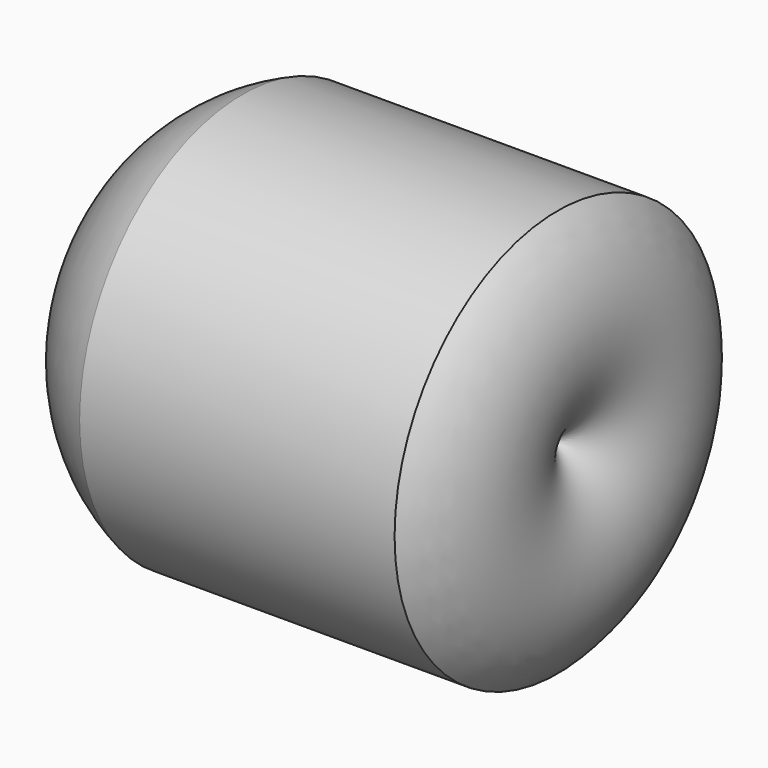
from build123d import *


with BuildPart() as f1:
    # F0 (on Top) → F1 (revolve)
    with BuildSketch(Plane.XY):
        with BuildLine():
            ThreePointArc((-96.600384, -14.193644), (-88.011407, -51.59284), (-58.633797, -76.279402))
            Line((-58.633797, -76.279402), (37.310869, -76.279402))
            ThreePointArc((37.310869, -76.279402), (50.01966, -44.935872), (35.918396, -14.193644))
            Line((35.918396, -14.193644), (-96.600384, -14.193644))
        make_face()
    revolve(axis=Axis((-30.340994, -14.193644, 0), (1, 0, 0)))


solid = f1.part
